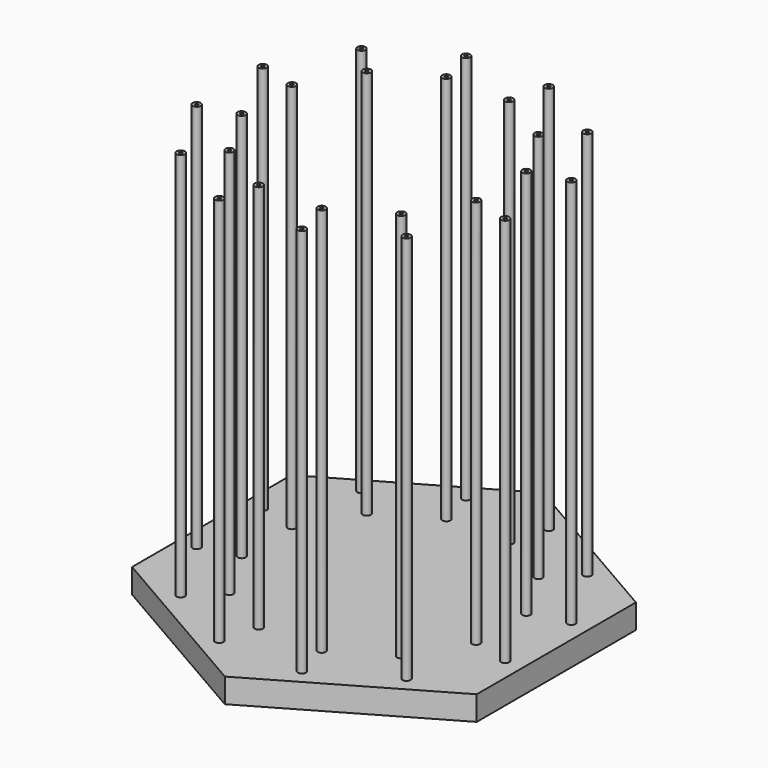
from build123d import *

# Parameters (mm, degrees)
F1_DEPTH      = 19.05
F2_R          = 3.175
F3_DEPTH      = 19.05
F4_R          = 3.175
F4_R_2        = 1.175
F5_DEPTH      = 304.8
F5_DEPTH_BACK = 19.05


with BuildPart() as f1:
    # F0 (on Top) → F1 (new body)
    with BuildSketch(Plane.XY):
        Polygon((134.8747963854, 77.87), (0, 155.74), (-134.8747963854, 77.87), (-134.8747963854, -77.87), (0, -155.74), (134.8747963854, -77.87), align=None)
    extrude(amount=F1_DEPTH)

    # F2 (on face) → F3 (cut)
    with BuildSketch(Plane.XY.offset(19.05)):
        with BuildLine():
            ThreePointArc((25.4095597529, 94.8297679959), (21.5209947863, 92.5847039657), (23.7660588165, 88.696138999))
            Line((23.7660588165, 88.696138999), (24.5878092847, 91.7629534975))
            Line((24.5878092847, 91.7629534975), (25.4095597529, 94.8297679959))
        make_face()
        with BuildLine():
            ThreePointArc((35.5273806378, 120.7407282861), (30.4195631007, 123.2596251416), (31.5306301696, 117.6739137877))
            ThreePointArc((31.5306301696, 117.6739137877), (34.2851981749, 118.2218314307), (35.5273806378, 120.7407282861))
        make_face()
        with BuildLine():
            Line((24.5878092847, 91.7629534975), (23.7660588165, 88.696138999))
            ThreePointArc((23.7660588165, 88.696138999), (26.5206268218, 89.244056642), (27.7628092847, 91.7629534975))
            ThreePointArc((27.7628092847, 91.7629534975), (27.1067061402, 93.6957710346), (25.4095597529, 94.8297679959))
            Line((25.4095597529, 94.8297679959), (24.5878092847, 91.7629534975))
        make_face()
        with Locations((-24.5878092847, 91.7629534975)):
            Circle(F2_R)
        with Locations((-32.3523806378, 120.7407282861)):
            Circle(F2_R)
        with Locations((-67.1751442127, 67.1751442127)):
            Circle(F2_R)
        with Locations((-88.3883476483, 88.3883476483)):
            Circle(F2_R)
        with Locations((-91.7629534975, 24.5878092847)):
            Circle(F2_R)
        with Locations((-120.7407282861, 32.3523806378)):
            Circle(F2_R)
        with Locations((-91.7629534975, -24.5878092847)):
            Circle(F2_R)
        with Locations((-120.7407282861, -32.3523806378)):
            Circle(F2_R)
        with Locations((-67.1751442127, -67.1751442127)):
            Circle(F2_R)
        with Locations((-88.3883476483, -88.3883476483)):
            Circle(F2_R)
        with Locations((-24.5878092847, -91.7629534975)):
            Circle(F2_R)
        with Locations((-32.3523806378, -120.7407282861)):
            Circle(F2_R)
        with Locations((24.5878092847, -91.7629534975)):
            Circle(F2_R)
        with Locations((32.3523806378, -120.7407282861)):
            Circle(F2_R)
        with Locations((67.1751442127, -67.1751442127)):
            Circle(F2_R)
        with Locations((88.3883476483, -88.3883476483)):
            Circle(F2_R)
        with Locations((91.7629534975, -24.5878092847)):
            Circle(F2_R)
        with Locations((120.7407282861, -32.3523806378)):
            Circle(F2_R)
        with Locations((91.7629534975, 24.5878092847)):
            Circle(F2_R)
        with Locations((120.7407282861, 32.3523806378)):
            Circle(F2_R)
        with Locations((67.1751442127, 67.1751442127)):
            Circle(F2_R)
        with Locations((88.3883476483, 88.3883476483)):
            Circle(F2_R)
    extrude(amount=-F3_DEPTH, mode=Mode.SUBTRACT)

    # F4 (on face) → F5 (join, two sides)
    with BuildSketch(Plane.XY.offset(19.05)) as f5_sk:
        with Locations((-88.3883476483, 88.3883476483)):
            Circle(F4_R)
        with Locations((-88.3883476483, 88.3883476483)):
            Circle(F4_R_2, mode=Mode.SUBTRACT)
        with Locations((-67.1751442127, 67.1751442127)):
            Circle(F4_R)
        with Locations((-67.1751442127, 67.1751442127)):
            Circle(F4_R_2, mode=Mode.SUBTRACT)
        with Locations((-120.7407282861, 32.3523806378)):
            Circle(F4_R)
        with Locations((-120.7407282861, 32.3523806378)):
            Circle(F4_R_2, mode=Mode.SUBTRACT)
        with Locations((-91.7629534975, 24.5878092847)):
            Circle(F4_R)
        with Locations((-91.7629534975, 24.5878092847)):
            Circle(F4_R_2, mode=Mode.SUBTRACT)
        with Locations((-120.7407282861, -32.3523806378)):
            Circle(F4_R)
        with Locations((-120.7407282861, -32.3523806378)):
            Circle(F4_R_2, mode=Mode.SUBTRACT)
        with Locations((-91.7629534975, -24.5878092847)):
            Circle(F4_R)
        with Locations((-91.7629534975, -24.5878092847)):
            Circle(F4_R_2, mode=Mode.SUBTRACT)
        with Locations((-88.3883476483, -88.3883476483)):
            Circle(F4_R)
        with Locations((-88.3883476483, -88.3883476483)):
            Circle(F4_R_2, mode=Mode.SUBTRACT)
        with Locations((-67.1751442127, -67.1751442127)):
            Circle(F4_R)
        with Locations((-67.1751442127, -67.1751442127)):
            Circle(F4_R_2, mode=Mode.SUBTRACT)
        with Locations((-32.3523806378, -120.7407282861)):
            Circle(F4_R)
        with Locations((-32.3523806378, -120.7407282861)):
            Circle(F4_R_2, mode=Mode.SUBTRACT)
        with Locations((-24.5878092847, -91.7629534975)):
            Circle(F4_R)
        with Locations((-24.5878092847, -91.7629534975)):
            Circle(F4_R_2, mode=Mode.SUBTRACT)
        with Locations((32.3523806378, -120.7407282861)):
            Circle(F4_R)
        with Locations((32.3523806378, -120.7407282861)):
            Circle(F4_R_2, mode=Mode.SUBTRACT)
        with Locations((24.5878092847, -91.7629534975)):
            Circle(F4_R)
        with Locations((24.5878092847, -91.7629534975)):
            Circle(F4_R_2, mode=Mode.SUBTRACT)
        with Locations((88.3883476483, -88.3883476483)):
            Circle(F4_R)
        with Locations((88.3883476483, -88.3883476483)):
            Circle(F4_R_2, mode=Mode.SUBTRACT)
        with Locations((67.1751442127, -67.1751442127)):
            Circle(F4_R)
        with Locations((67.1751442127, -67.1751442127)):
            Circle(F4_R_2, mode=Mode.SUBTRACT)
        with Locations((120.7407282861, -32.3523806378)):
            Circle(F4_R)
        with Locations((120.7407282861, -32.3523806378)):
            Circle(F4_R_2, mode=Mode.SUBTRACT)
        with Locations((91.7629534975, -24.5878092847)):
            Circle(F4_R)
        with Locations((91.7629534975, -24.5878092847)):
            Circle(F4_R_2, mode=Mode.SUBTRACT)
        with Locations((120.7407282861, 32.3523806378)):
            Circle(F4_R)
        with Locations((120.7407282861, 32.3523806378)):
            Circle(F4_R_2, mode=Mode.SUBTRACT)
        with Locations((91.7629534975, 24.5878092847)):
            Circle(F4_R)
        with Locations((91.7629534975, 24.5878092847)):
            Circle(F4_R_2, mode=Mode.SUBTRACT)
        with Locations((88.3883476483, 88.3883476483)):
            Circle(F4_R)
        with Locations((88.3883476483, 88.3883476483)):
            Circle(F4_R_2, mode=Mode.SUBTRACT)
        with Locations((67.1751442127, 67.1751442127)):
            Circle(F4_R)
        with Locations((67.1751442127, 67.1751442127)):
            Circle(F4_R_2, mode=Mode.SUBTRACT)
        with Locations((32.3523806378, 120.7407282861)):
            Circle(F4_R)
        with Locations((32.3523806378, 120.7407282861)):
            Circle(F4_R_2, mode=Mode.SUBTRACT)
        with Locations((24.5878092847, 91.7629534975)):
            Circle(F4_R)
        with Locations((24.5878092847, 91.7629534975)):
            Circle(F4_R_2, mode=Mode.SUBTRACT)
        with Locations((-32.3523806378, 120.7407282861)):
            Circle(F4_R)
        with Locations((-32.3523806378, 120.7407282861)):
            Circle(F4_R_2, mode=Mode.SUBTRACT)
        with Locations((-24.5878092847, 91.7629534975)):
            Circle(F4_R)
        with Locations((-24.5878092847, 91.7629534975)):
            Circle(F4_R_2, mode=Mode.SUBTRACT)
    extrude(amount=F5_DEPTH)
    extrude(f5_sk.sketch, amount=-F5_DEPTH_BACK)


solid = f1.part
